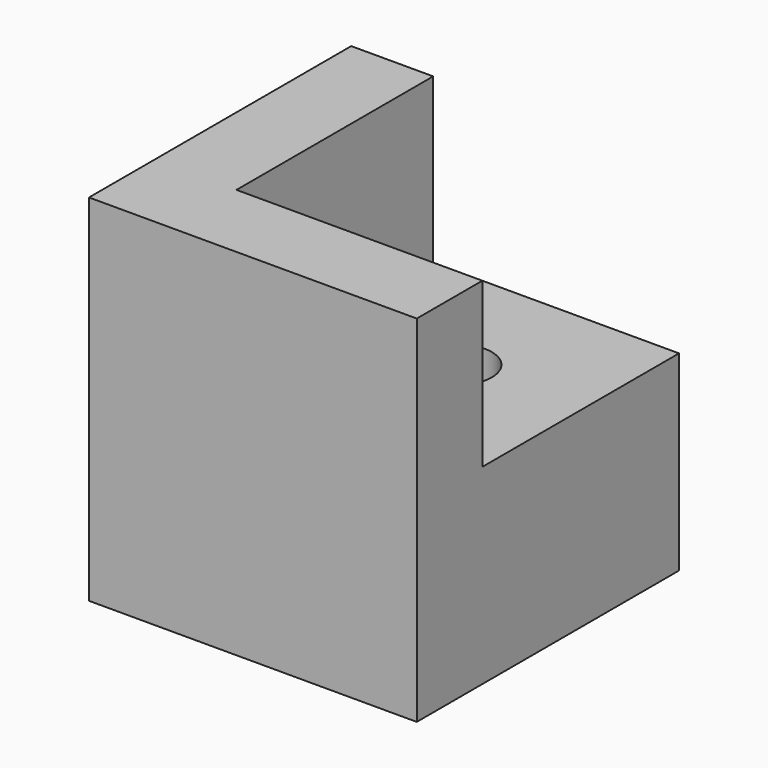
from build123d import *

# Parameters (mm, degrees)
F0_W     = 9
F0_H     = 9
F0_R     = 1.25
F1_DEPTH = 7
F2_DEPTH = 13


with BuildPart() as f1:
    # F0 (on Top) → F1 (new body)
    with BuildSketch(Plane.XY):
        with Locations((-42.070914, 24.336671)):
            Rectangle(F0_W, F0_H)
        with Locations((-42.070914, 24.336671)):
            Circle(F0_R, mode=Mode.SUBTRACT)
        Polygon((-49.570914, 16.836671), (-37.570914, 16.836671), (-37.570914, 19.836671), (-46.570914, 19.836671), (-46.570914, 28.836671), (-49.570914, 28.836671), align=None)
    extrude(amount=F1_DEPTH)

    # F0 (on Top) → F2 (join)
    with BuildSketch(Plane.XY):
        Polygon((-49.570914, 16.836671), (-37.570914, 16.836671), (-37.570914, 19.836671), (-46.570914, 19.836671), (-46.570914, 28.836671), (-49.570914, 28.836671), align=None)
    extrude(amount=F2_DEPTH)


solid = f1.part
